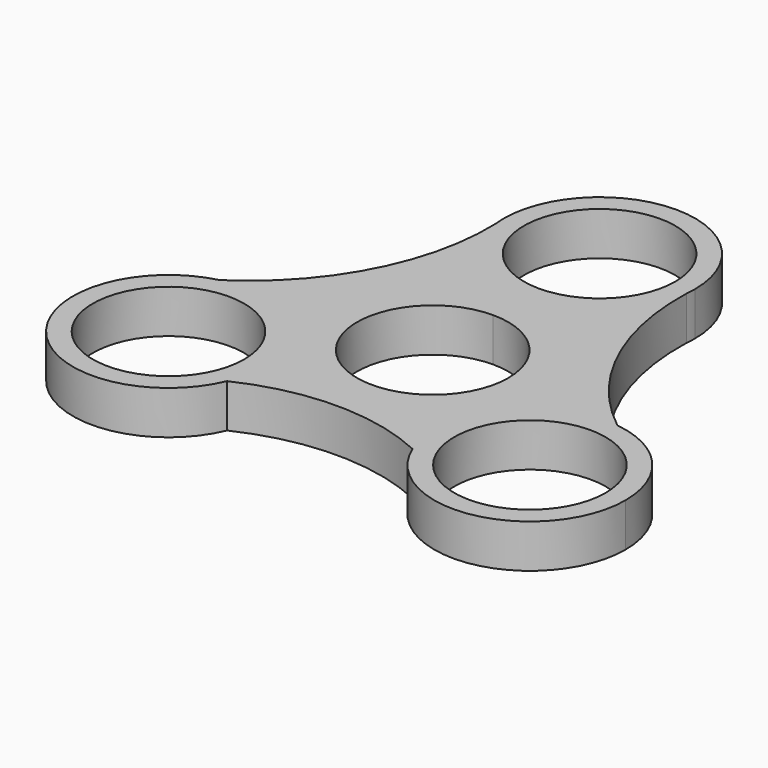
from build123d import *

# Parameters (mm, degrees)
F0_R     = 11.049
F1_DEPTH = 6.35


with BuildPart() as f1:
    # F0 (on Top) → F1 (new body)
    with BuildSketch(Plane.XY):
        with BuildLine():
            ThreePointArc((0, 11.049), (-7.812823, -7.812823), (11.049, 0))
            ThreePointArc((11.049, 0), (7.812823, 7.812823), (0, 11.049))
        make_face()
        with BuildLine():
            ThreePointArc((13.893866, 29.023504), (9.349162, 20.099534), (0, 16.51))
            ThreePointArc((0, 16.51), (-9.302947, 20.058096), (-13.880375, 28.900097))
            ThreePointArc((-13.880375, 28.900097), (-17.809173, 11.527031), (-29.759522, -1.680845))
            ThreePointArc((-29.759522, -1.680845), (-17.788933, -4.236751), (-12.426454, -15.24))
            ThreePointArc((-12.426454, -15.24), (-12.702084, -18.001363), (-13.518097, -20.653762))
            ThreePointArc((-13.518097, -20.653762), (-0.046654, -17.568603), (13.457498, -20.507288))
            ThreePointArc((13.457498, -20.507288), (15.296029, -6.758169), (28.078999, -1.371693))
            ThreePointArc((28.078999, -1.371693), (17.354133, 12.130747), (13.893866, 29.023504))
        make_face()
        with BuildLine():
            ThreePointArc((0, 11.049), (7.812823, 7.812823), (11.049, 0))
            ThreePointArc((11.049, 0), (-7.812823, -7.812823), (0, 11.049))
        make_face(mode=Mode.SUBTRACT)
        with BuildLine():
            ThreePointArc((11.049, 30.48), (-7.812823, 38.292823), (0, 19.431))
            ThreePointArc((0, 19.431), (7.812823, 22.667177), (11.049, 30.48))
        make_face()
        with BuildLine():
            ThreePointArc((-13.880375, 28.900097), (-9.302947, 20.058096), (0, 16.51))
            ThreePointArc((0, 16.51), (9.349162, 20.099534), (13.893866, 29.023504))
            ThreePointArc((13.893866, 29.023504), (13.924773, 29.752126), (13.97, 30.48))
            ThreePointArc((13.97, 30.48), (0, 44.45), (-13.97, 30.48))
            ThreePointArc((-13.97, 30.48), (-13.916283, 29.690554), (-13.880375, 28.900097))
        make_face()
        with BuildLine():
            ThreePointArc((11.049, 30.48), (7.812823, 22.667177), (0, 19.431))
            ThreePointArc((0, 19.431), (-7.812823, 38.292823), (11.049, 30.48))
        make_face(mode=Mode.SUBTRACT)
        with BuildLine():
            ThreePointArc((-13.97, 30.48), (-13.947576, 29.688778), (-13.880375, 28.900097))
            ThreePointArc((-13.880375, 28.900097), (-13.916283, 29.690554), (-13.97, 30.48))
        make_face()
        with BuildLine():
            ThreePointArc((13.97, 30.48), (13.924773, 29.752126), (13.893866, 29.023504))
            ThreePointArc((13.893866, 29.023504), (13.950954, 29.750758), (13.97, 30.48))
        make_face()
        with BuildLine():
            ThreePointArc((-12.426454, -15.24), (-17.788933, -4.236751), (-29.759522, -1.680845))
            ThreePointArc((-29.759522, -1.680845), (-37.009092, -24.324758), (-13.518097, -20.653762))
            ThreePointArc((-13.518097, -20.653762), (-12.702084, -18.001363), (-12.426454, -15.24))
        make_face()
        with Locations((-26.396454, -15.24)):
            Circle(F0_R, mode=Mode.SUBTRACT)
        with BuildLine():
            ThreePointArc((40.366454, -15.24), (36.852698, -5.975667), (28.078999, -1.371693))
            ThreePointArc((28.078999, -1.371693), (15.296029, -6.758169), (13.457498, -20.507288))
            ThreePointArc((13.457498, -20.507288), (29.080079, -28.949816), (40.366454, -15.24))
        make_face()
        with Locations((26.396454, -15.24)):
            Circle(F0_R, mode=Mode.SUBTRACT)
    extrude(amount=F1_DEPTH)


solid = f1.part
